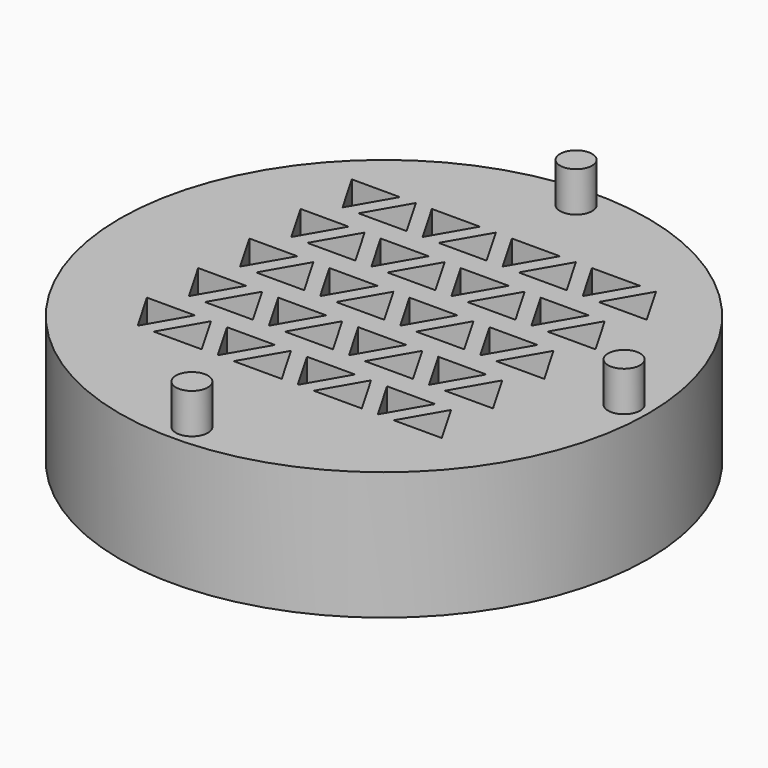
from build123d import *

# Parameters (mm, degrees)
F0_R     = 16.5
F1_DEPTH = 8
F2_R     = 1.1
F3_DEPTH = 2.5
F4_R     = 1
F5_DEPTH = 2.5
F7_DEPTH = 25


with BuildPart() as f1:
    # F0 (on Top) → F1 (new body)
    with BuildSketch(Plane.XY):
        Circle(F0_R)
    extrude(amount=F1_DEPTH)

    # F2 (on face) → F3 (cut)
    with BuildSketch(Plane(origin=(0, 0, 0), x_dir=(1, 0, 0), z_dir=(0, 0, -1))):
        with Locations((0, 15.1)):
            Circle(F2_R)
        with Locations((15, 0.1)):
            Circle(F2_R)
        with Locations((0, -14.9)):
            Circle(F2_R)
    extrude(amount=-F3_DEPTH, mode=Mode.SUBTRACT)

    # F4 (on face) → F5 (join)
    with BuildSketch(Plane.XY.offset(8)):
        with Locations((0, 15)):
            Circle(F4_R)
        with Locations((15, 0)):
            Circle(F4_R)
        with Locations((0, -15)):
            Circle(F4_R)
    extrude(amount=F5_DEPTH)

    # F6 (on face) → F7 (cut)
    with BuildSketch(Plane.XY.offset(8)):
        Polygon((-7.25, -5.700962), (-10.25, -5.700962), (-8.75, -8.299038), align=None)
        Polygon((-6.25, -5.700962), (-7.75, -8.299038), (-4.75, -8.299038), align=None)
        Polygon((-7.25, -1.700962), (-10.25, -1.700962), (-8.75, -4.299038), align=None)
        Polygon((-6.25, -1.700962), (-7.75, -4.299038), (-4.75, -4.299038), align=None)
        Polygon((-7.25, 2.299038), (-10.25, 2.299038), (-8.75, -0.299038), align=None)
        Polygon((-6.25, 2.299038), (-7.75, -0.299038), (-4.75, -0.299038), align=None)
        Polygon((-7.25, 6.299038), (-10.25, 6.299038), (-8.75, 3.700962), align=None)
        Polygon((-6.25, 6.299038), (-7.75, 3.700962), (-4.75, 3.700962), align=None)
        Polygon((-7.25, 10.299038), (-10.25, 10.299038), (-8.75, 7.700962), align=None)
        Polygon((-6.25, 10.299038), (-7.75, 7.700962), (-4.75, 7.700962), align=None)
        Polygon((-2.25, -5.700962), (-5.25, -5.700962), (-3.75, -8.299038), align=None)
        Polygon((-1.25, -5.700962), (-2.75, -8.299038), (0.25, -8.299038), align=None)
        Polygon((-2.25, -1.700962), (-5.25, -1.700962), (-3.75, -4.299038), align=None)
        Polygon((-1.25, -1.700962), (-2.75, -4.299038), (0.25, -4.299038), align=None)
        Polygon((-2.25, 2.299038), (-5.25, 2.299038), (-3.75, -0.299038), align=None)
        Polygon((-1.25, 2.299038), (-2.75, -0.299038), (0.25, -0.299038), align=None)
        Polygon((-2.25, 6.299038), (-5.25, 6.299038), (-3.75, 3.700962), align=None)
        Polygon((-1.25, 6.299038), (-2.75, 3.700962), (0.25, 3.700962), align=None)
        Polygon((-2.25, 10.299038), (-5.25, 10.299038), (-3.75, 7.700962), align=None)
        Polygon((-1.25, 10.299038), (-2.75, 7.700962), (0.25, 7.700962), align=None)
        Polygon((2.75, -5.700962), (-0.25, -5.700962), (1.25, -8.299038), align=None)
        Polygon((3.75, -5.700962), (2.25, -8.299038), (5.25, -8.299038), align=None)
        Polygon((2.75, -1.700962), (-0.25, -1.700962), (1.25, -4.299038), align=None)
        Polygon((3.75, -1.700962), (2.25, -4.299038), (5.25, -4.299038), align=None)
        Polygon((2.75, 2.299038), (-0.25, 2.299038), (1.25, -0.299038), align=None)
        Polygon((3.75, 2.299038), (2.25, -0.299038), (5.25, -0.299038), align=None)
        Polygon((2.75, 6.299038), (-0.25, 6.299038), (1.25, 3.700962), align=None)
        Polygon((3.75, 6.299038), (2.25, 3.700962), (5.25, 3.700962), align=None)
        Polygon((2.75, 10.299038), (-0.25, 10.299038), (1.25, 7.700962), align=None)
        Polygon((3.75, 10.299038), (2.25, 7.700962), (5.25, 7.700962), align=None)
        Polygon((7.75, -5.700962), (4.75, -5.700962), (6.25, -8.299038), align=None)
        Polygon((8.75, -5.700962), (7.25, -8.299038), (10.25, -8.299038), align=None)
        Polygon((7.75, -1.700962), (4.75, -1.700962), (6.25, -4.299038), align=None)
        Polygon((8.75, -1.700962), (7.25, -4.299038), (10.25, -4.299038), align=None)
        Polygon((7.75, 2.299038), (4.75, 2.299038), (6.25, -0.299038), align=None)
        Polygon((8.75, 2.299038), (7.25, -0.299038), (10.25, -0.299038), align=None)
        Polygon((7.75, 6.299038), (4.75, 6.299038), (6.25, 3.700962), align=None)
        Polygon((8.75, 6.299038), (7.25, 3.700962), (10.25, 3.700962), align=None)
        Polygon((7.75, 10.299038), (4.75, 10.299038), (6.25, 7.700962), align=None)
        Polygon((8.75, 10.299038), (7.25, 7.700962), (10.25, 7.700962), align=None)
    extrude(amount=-F7_DEPTH, mode=Mode.SUBTRACT)


solid = f1.part
